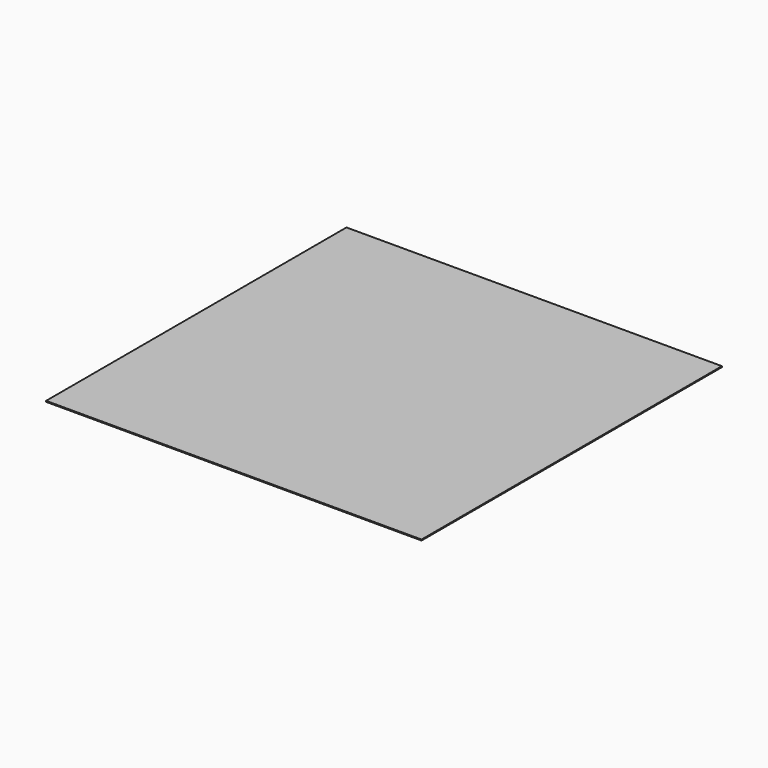
from build123d import *

# Parameters (mm, degrees)
F0_W          = 5080
F0_H          = 25.4
F1_DEPTH      = 5080
F1_DEPTH_BACK = 5080


with BuildPart() as f1:
    # F0 (on Front) → F1 (new body, two sides)
    with BuildSketch(Plane.XZ) as f1_sk:
        with Locations((-2540, -12.7)):
            Rectangle(F0_W, F0_H)
        with Locations((2540, -12.7)):
            Rectangle(F0_W, F0_H)
    extrude(amount=F1_DEPTH)
    extrude(f1_sk.sketch, amount=-F1_DEPTH_BACK)


solid = f1.part
